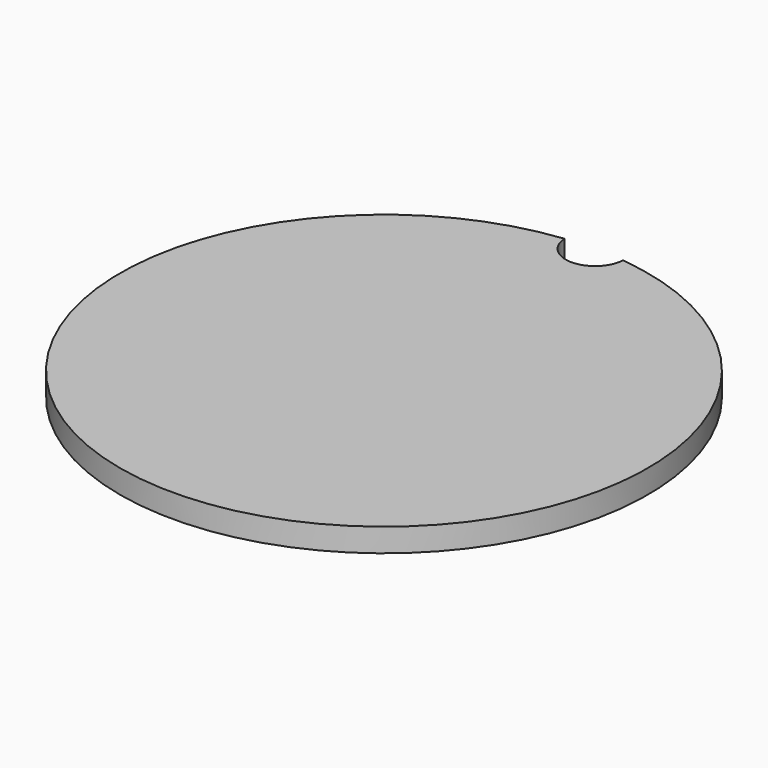
from build123d import *

# Parameters (mm, degrees)
F1_DEPTH = 2


with BuildPart() as f1:
    # F0 (on Top) → F1 (new body)
    with BuildSketch(Plane.XY):
        with BuildLine():
            ThreePointArc((2.496139, 22.361111), (0, 20), (-2.496139, 22.361111))
            ThreePointArc((-2.496139, 22.361111), (0, -22.5), (2.496139, 22.361111))
        make_face()
    extrude(amount=F1_DEPTH)


solid = f1.part
